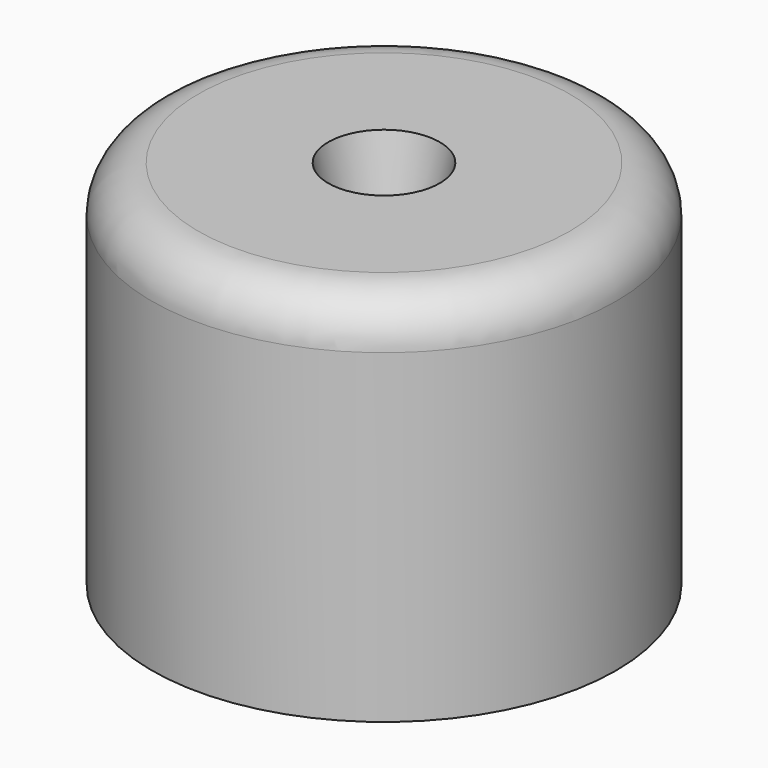
from build123d import *

# Parameters (mm, degrees)
F0_R     = 25
F1_DEPTH = 40
F6_R     = 5


with BuildPart() as f1:
    # F0 (on Top) → F1 (new body)
    with BuildSketch(Plane.XY):
        Circle(F0_R)
    extrude(amount=F1_DEPTH)

    # F4 (on 3pt) → F5 (revolve, cut)
    with BuildSketch(Plane(origin=(0, 0, 0), x_dir=(0.0647328202, 0.9979026315, 0), z_dir=(0.9979026315, -0.0647328202, 0))):
        Polygon((6, 40), (0, 40), (0, 8), align=None)
    revolve(axis=Axis((0, 0, 24), (0, 0, -1)), mode=Mode.SUBTRACT)

    # F6
    f6_edges = [f1.edges().sort_by_distance(p)[0] for p in [
        (-25, 0, 40),
    ]]
    fillet(f6_edges, radius=F6_R)


solid = f1.part
